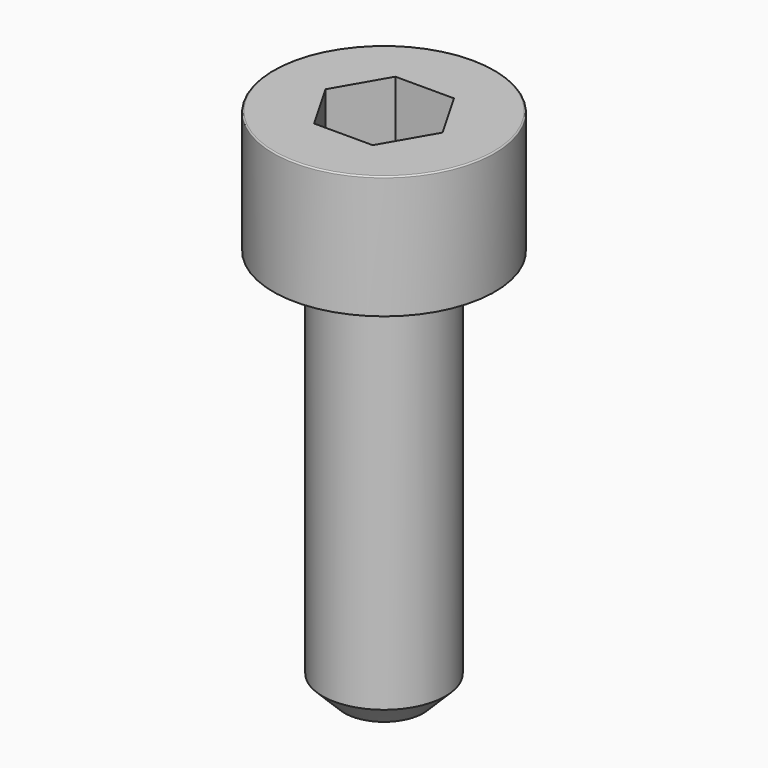
from build123d import *

# Parameters (mm, degrees)
POCKET_DEPTH = 2.06


with BuildPart() as part:
    # Sketch → Revolve (revolve)
    with BuildSketch(Plane.YZ):
        with BuildLine():
            Line((1.249, 0), (2.25, 0))
            Line((2.25, 0), (2.25, 2.47229))
            ThreePointArc((2.25, 2.47229), (2.241884, 2.491884), (2.22229, 2.5))
            Line((2.22229, 2.5), (0, 2.5))
            Line((0, -8), (0, 2.5))
            Line((0.8, -8), (0, -8))
            Line((1.25, -7.55), (0.8, -8))
            Line((1.25, -0.2), (1.25, -7.55))
            Line((1.249, 0), (1.25, -0.2))
        make_face()
    revolve(axis=Axis((0, 0, 0), (0, 0, 1)))

    # Sketch001 → Pocket (cut)
    with BuildSketch(Plane.XY.offset(2.5)):
        Polygon((1.189342, 0), (0.594671, 1.03), (-0.594671, 1.03), (-1.189342, 0), (-0.594671, -1.03), (0.594671, -1.03), align=None)
    extrude(amount=-POCKET_DEPTH, mode=Mode.SUBTRACT)


solid = part.part
